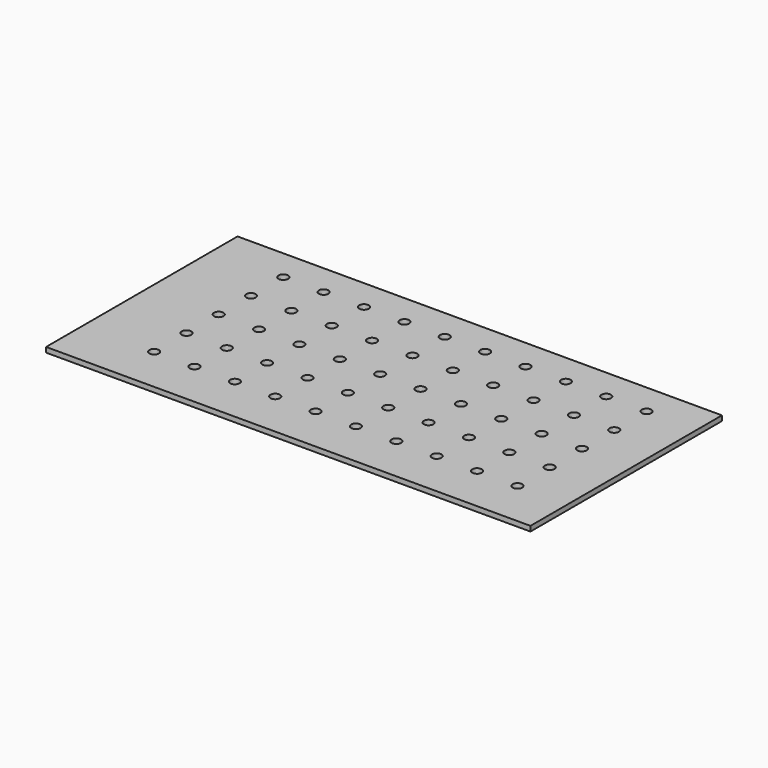
from build123d import *

# Parameters (mm, degrees)
F1_W     = 609.6
F1_H     = 301.2183383107
F2_DEPTH = 6.35
F3_D     = 12


with BuildPart() as f2:
    # F1 (on Top) → F2 (new body)
    with BuildSketch(Plane.XY):
        with Locations((49.4969822884, 120.5633841455)):
            Rectangle(F1_W, F1_H)
    extrude(amount=F2_DEPTH)

    # F3 (through all)
    with Locations(Plane(origin=(0, 0, 0), x_dir=(1, 0, 0), z_dir=(0, 0, -1))):
        with Locations((-166.0225391388, -231.5388663083), (-166.0225391388, -180.7388663083), (-166.0225391388, -129.9388663083), (-166.0225391388, -79.1388663083), (-166.0225391388, -28.3388663083), (87.9774608612, -129.9388663083), (138.7774608612, -79.1388663083), (-13.6225391388, -28.3388663083), (-13.6225391388, -180.7388663083), (37.1774608612, -231.5388663083), (138.7774608612, -231.5388663083), (-64.4225391388, -79.1388663083), (240.3774608612, -79.1388663083), (189.5774608612, -180.7388663083), (-13.6225391388, -79.1388663083), (87.9774608612, -180.7388663083), (37.1774608612, -129.9388663083), (87.9774608612, -28.3388663083), (138.7774608612, -129.9388663083), (-64.4225391388, -129.9388663083), (240.3774608612, -28.3388663083), (-13.6225391388, -129.9388663083), (138.7774608612, -180.7388663083), (37.1774608612, -79.1388663083), (189.5774608612, -129.9388663083), (-115.2225391388, -79.1388663083), (189.5774608612, -28.3388663083), (-64.4225391388, -28.3388663083), (87.9774608612, -79.1388663083), (240.3774608612, -129.9388663083), (-115.2225391388, -28.3388663083), (-64.4225391388, -231.5388663083), (37.1774608612, -180.7388663083), (138.7774608612, -28.3388663083), (-115.2225391388, -231.5388663083), (-115.2225391388, -180.7388663083), (-115.2225391388, -129.9388663083), (37.1774608612, -28.3388663083), (189.5774608612, -79.1388663083), (87.9774608612, -231.5388663083), (-64.4225391388, -180.7388663083), (291.1774608612, -28.3388663083), (-13.6225391388, -231.5388663083), (240.3774608612, -231.5388663083), (240.3774608612, -180.7388663083), (291.1774608612, -129.9388663083), (291.1774608612, -180.7388663083), (291.1774608612, -231.5388663083), (291.1774608612, -79.1388663083), (189.5774608612, -231.5388663083)):
            Hole(F3_D / 2)


solid = f2.part
